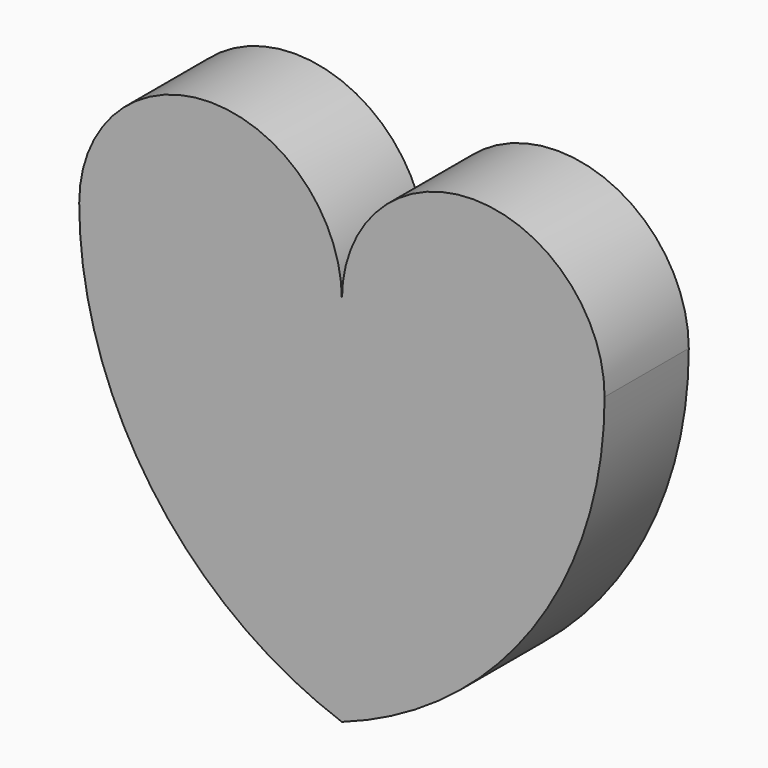
from build123d import *

# Parameters (mm, degrees)
F1_DEPTH = 25.4


with BuildPart() as f1:
    # F0 (on Front) → F1 (new body)
    with BuildSketch(Plane.XZ):
        with BuildLine():
            ThreePointArc((63.396133, 0), (31.698067, 31.698067), (0, 0))
            ThreePointArc((0, 0), (-31.698067, 31.698067), (-63.396133, 0))
            ThreePointArc((-63.396133, 0), (-45.946023, -54.902662), (0, -89.655672))
            ThreePointArc((0, -89.655672), (45.946023, -54.902662), (63.396133, 0))
        make_face()
    extrude(amount=F1_DEPTH)


solid = f1.part
